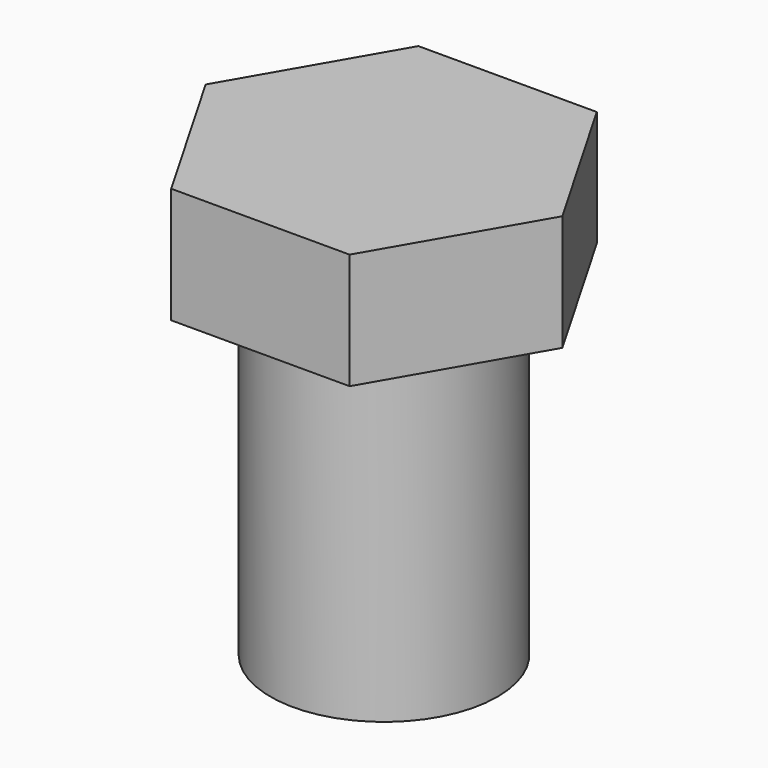
from build123d import *

# Parameters (mm, degrees)
CYLINDER_R     = 2.94
CYLINDER_DEPTH = 8.5
PAD_DEPTH      = 3


with BuildPart() as part:
    # Cylinder → Cylinder (new body)
    with BuildSketch(Plane.XY):
        Circle(CYLINDER_R)
    extrude(amount=CYLINDER_DEPTH)

    # Sketch → Pad (new body)
    with BuildSketch(Plane.XY.offset(8.5)):
        Polygon((-2.309401, 4), (-4.618802, 0), (-2.309401, -4), (2.309401, -4), (4.618802, 0), (2.309401, 4), align=None)
    extrude(amount=PAD_DEPTH)


solid = part.part
